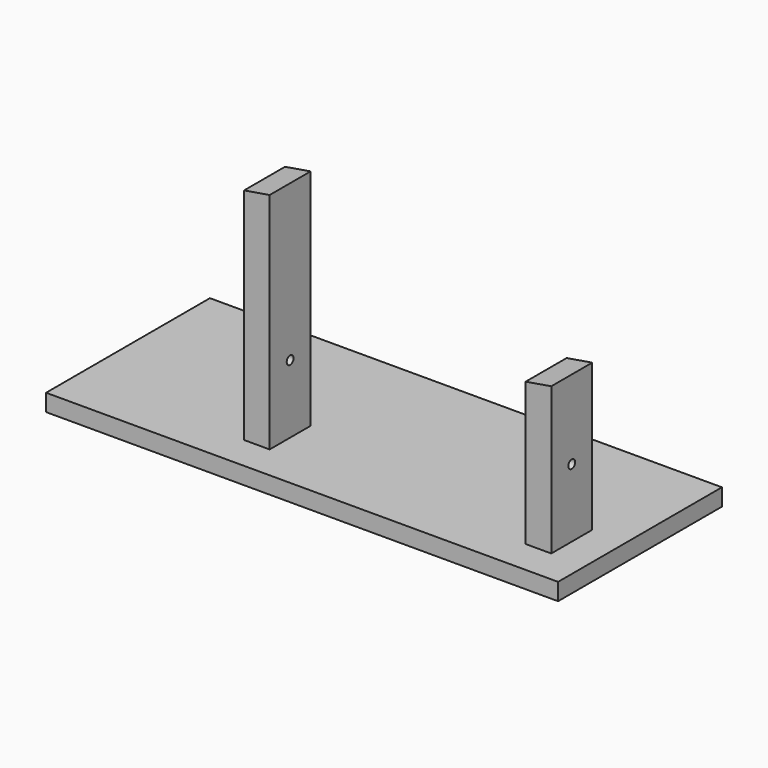
from build123d import *

# Parameters (mm, degrees)
F1_DEPTH   = 38.1
F2_R       = 3.175
F1_FACE1_W = 38.1
F1_FACE1_H = 163.5125
F3_DEPTH   = 19.05
F4_R       = 3.175
F5_DEPTH   = 19.05
F7_DEPTH   = 25.4
F9_DEPTH   = 88.9


with BuildPart() as f1:
    # F0 (on Front) → F1 (new body)
    with BuildSketch(Plane.XZ):
        Polygon((79.8746063113, 106.3625), (79.8746063113, 0), (98.9246063113, 0), (98.9246063113, 109.5375), align=None)
        Polygon((98.9246063113, 0), (79.8746063113, 0), (-110.6253936887, 0), (-129.6753936887, 0), (-256.6753936887, 0), (-256.6753936887, -12.7), (124.3246063113, -12.7), (124.3246063113, 0), align=None)
        Polygon((-129.6753936887, 0), (-110.6253936887, 0), (-110.6253936887, 166.6875), (-129.6753936887, 163.5125), align=None)
    extrude(amount=F1_DEPTH)

    # F2 (on face) + F1_face1 (on face) → F3 (cut)
    with BuildSketch(Plane.YZ.offset(98.9246063113)):
        with Locations((-19.05, 50.8)):
            Circle(F2_R)
    with BuildSketch(Plane(origin=(-129.6753936887, -19.05, 81.75625), x_dir=(0, -1, 0), z_dir=(-1, 0, 0))):
        Rectangle(F1_FACE1_W, F1_FACE1_H)
    extrude(amount=-F3_DEPTH, dir=(1, 0, 0), mode=Mode.SUBTRACT)

    # F4 (on face) → F5 (cut)
    with BuildSketch(Plane(origin=(-129.6753936887, 0, 0), x_dir=(0, -1, 0), z_dir=(-1, 0, 0))):
        with Locations((19.05, 50.8)):
            Circle(F4_R)
    extrude(amount=-F5_DEPTH, mode=Mode.SUBTRACT)

    # F6 (on face) → F7 (join)
    with BuildSketch(Plane.XZ.offset(38.1)):
        Polygon((-129.6753936887, 0), (-256.6753936887, 0), (-256.6753936887, -12.7), (124.3246063113, -12.7), (124.3246063113, 0), (98.9246063113, 0), (79.8746063113, 0), (-110.6253936887, 0), align=None)
    extrude(amount=F7_DEPTH)

    # F8 (on face) → F9 (join)
    with BuildSketch(Plane(origin=(0, 0, 0), x_dir=(-1, 0, 0), z_dir=(0, 1, 0))):
        Polygon((-98.9246063113, 0), (-124.3246063113, 0), (-124.3246063113, -12.7), (256.6753936887, -12.7), (256.6753936887, 0), (129.6753936887, 0), (110.6253936887, 0), (-79.8746063113, 0), align=None)
    extrude(amount=F9_DEPTH)


solid = f1.part
